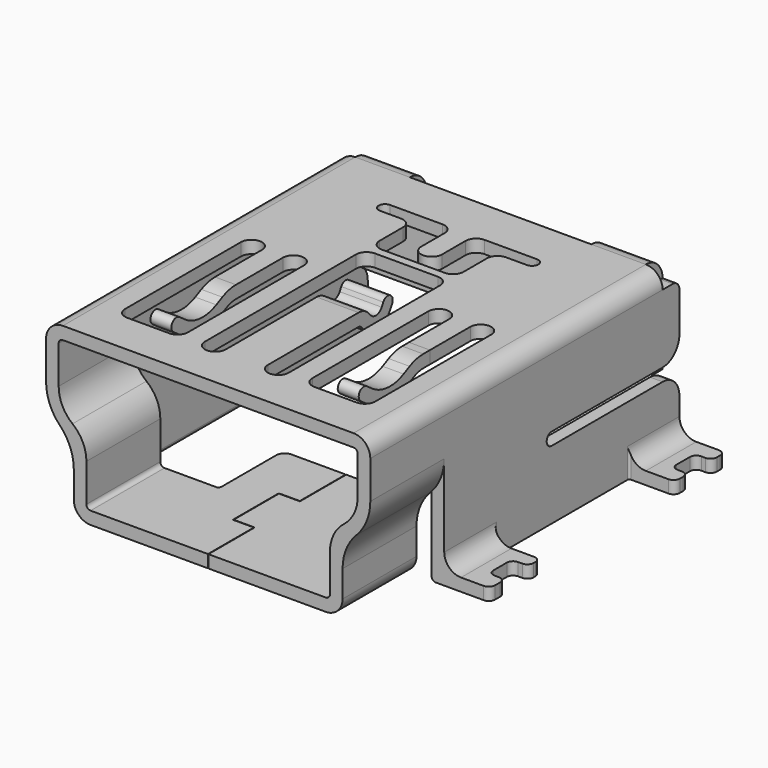
from build123d import *

# Parameters (mm, degrees)
EXTRUDE_SKETCH039_DEPTH    = 0.3
SKETCH034_W                = 4.32
SKETCH034_H                = 0.5
EXTRUDE_SKETCH034_DEPTH    = 0.5
EXTRUDE_SKETCH032_DEPTH    = 0.3
EXTRUDE_SKETCH003_DEPTH    = 6.92
SKETCH033_W                = 7.72
SKETCH033_H                = 0.5
EXTRUDE_SKETCH033_DEPTH    = 0.4
EXTRUDE_SKETCH008001_DEPTH = 0.5
PAD002_DEPTH               = 1
PAD003_DEPTH               = 0.3
PAD001_DEPTH               = 7
POCKET_DEPTH               = 5
FILLET_R                   = 0.099
PAD_DEPTH                  = 2.2
POCKET001_DEPTH            = 5
FILLET002005004_R          = 0.5
FILLET002005005_R          = 0.2


with BuildPart() as sketch039_extrude_drill:
    # Sketch039 (on Face23 of Fillet002005005) → Extrude_Sketch039 (new body)
    with BuildSketch(Plane(origin=(0, 0, 0), x_dir=(1, 0, 0), z_dir=(0, 0, -1))):
        Polygon((-0.005, 5.7), (-0.005, 4.333333), (-0.505, 4.333333), (-0.505, 2.966667), (-0.005, 2.966667), (-0.005, 1.6), (0.005, 1.6), (0.005, 2.976667), (-0.495, 2.976667), (-0.495, 4.323333), (0.005, 4.323333), (0.005, 5.7), align=None)
    extrude(amount=-EXTRUDE_SKETCH039_DEPTH)


with BuildPart() as f_15_sketch034_extrude:
    # Sketch034 (on Face6 of Fusion009004) → Extrude_Sketch034 (new body)
    with BuildSketch(Plane.XY.offset(3.96)):
        with Locations((0, 3.25)):
            Rectangle(SKETCH034_W, SKETCH034_H)
    extrude(amount=-EXTRUDE_SKETCH034_DEPTH)


with BuildPart() as f_12_sketch032_extrude:
    # Sketch032 → Extrude_Sketch032 (new body)
    with BuildSketch(Plane(origin=(0, 0, 0), x_dir=(1, 0, 0), z_dir=(0, 0, -1))):
        with BuildLine():
            Line((-1.7, 3.6), (1.7, 3.6))
            ThreePointArc((1.7, 3.6), (1.558579, 3.541422), (1.5, 3.400001))
            Line((1.5, 3.400001), (1.5, 1.8))
            ThreePointArc((1.3, 1.6), (1.441421, 1.658579), (1.5, 1.8))
            Line((-1.3, 1.6), (1.3, 1.6))
            ThreePointArc((-1.5, 1.8), (-1.441421, 1.658579), (-1.3, 1.6))
            Line((-1.5, 3.400001), (-1.5, 1.8))
            ThreePointArc((-1.5, 3.400001), (-1.558579, 3.541422), (-1.7, 3.6))
        make_face()
    extrude(amount=-EXTRUDE_SKETCH032_DEPTH)


with BuildPart() as f_13_sketch003_extrude:
    # Sketch003 → Extrude_Sketch003 (new body)
    with BuildSketch(Plane.YZ.offset(3.46)):
        with BuildLine():
            ThreePointArc((3.5, 3.460001), (3.353553, 3.813554), (3, 3.96))
            Line((3, 3.96), (3, 3.66))
            ThreePointArc((3.2, 3.460001), (3.141421, 3.601422), (3, 3.66))
            Line((3.2, 1.56), (3.2, 3.460001))
            Line((3.5, 1.56), (3.2, 1.56))
            Line((3.5, 3.460001), (3.5, 1.56))
        make_face()
    extrude(amount=-EXTRUDE_SKETCH003_DEPTH)


with BuildPart() as f_10_sketch033_extrude:
    # Sketch033 (on Face167 of Fusion009003) → Extrude_Sketch033 (new body)
    with BuildSketch(Plane.XY.offset(3.96)):
        with Locations((0, 3.25)):
            Rectangle(SKETCH033_W, SKETCH033_H)
    extrude(amount=-EXTRUDE_SKETCH033_DEPTH)


with BuildPart() as f_8_sketch008_extrude001:
    # Sketch008 → Extrude_Sketch008001 (new body)
    with BuildSketch(Plane(origin=(-2.48, 0, 0), x_dir=(0, -1, 0), z_dir=(-1, 0, 0))):
        with BuildLine():
            Line((2.2, 3.96), (2.4, 3.96))
            ThreePointArc((2.804768, 3.865368), (2.607842, 3.936027), (2.4, 3.96))
            Line((2.804768, 3.865368), (2.984037, 3.776697))
            ThreePointArc((2.984037, 3.776697), (3.462354, 3.685032), (3.91974, 3.852325))
            Line((3.91974, 3.852325), (4.082442, 3.968636))
            ThreePointArc((4.256908, 3.724583), (4.291701, 3.933842), (4.082442, 3.968636))
            Line((4.094206, 3.608273), (4.256908, 3.724583))
            ThreePointArc((2.851031, 3.507793), (3.486522, 3.386007), (4.094206, 3.608273))
            Line((2.671762, 3.596464), (2.851031, 3.507793))
            ThreePointArc((2.671762, 3.596464), (2.539545, 3.643905), (2.4, 3.66))
            Line((2.4, 3.66), (2.2, 3.66))
            Line((2.2, 3.66), (2.2, 3.96))
        make_face()
    extrude(amount=-EXTRUDE_SKETCH008001_DEPTH)


with BuildPart() as f_8_1clone_of_8_sketch008_extrude001:
    # Clone base: copy of 8.Sketch008_Extrude001
    add(f_8_sketch008_extrude001.part)


with BuildPart() as f_8_1clone_of_8_sketch008_extrude001_1:
    # Clone placement: moved
    add(f_8_1clone_of_8_sketch008_extrude001.part.moved(Location((4.46, 0, 0))))


with BuildPart() as f_8_pad002:
    # Sketch007 → Pad002 (new body)
    with BuildSketch(Plane.YZ.offset(0.5)):
        with BuildLine():
            Line((-2.05, 3.96), (-1.85, 3.96))
            ThreePointArc((-1.553111, 3.828064), (-1.687557, 3.925531), (-1.85, 3.96))
            Line((-1.553111, 3.828064), (-1.486095, 3.753842))
            ThreePointArc((-1.486095, 3.753842), (-1.313657, 3.689319), (-1.161553, 3.793061))
            Line((-1.161553, 3.793061), (-1.114147, 3.88111))
            ThreePointArc((-0.85, 3.73889), (-0.910963, 3.942073), (-1.114147, 3.88111))
            Line((-0.897407, 3.650841), (-0.85, 3.73889))
            ThreePointArc((-1.70876, 3.552794), (-1.277666, 3.391486), (-0.897407, 3.650841))
            Line((-1.775776, 3.627016), (-1.70876, 3.552794))
            ThreePointArc((-1.775776, 3.627016), (-1.809387, 3.651383), (-1.849997, 3.66))
            Line((-2.05, 3.66), (-1.849997, 3.66))
            Line((-2.05, 3.66), (-2.05, 3.96))
        make_face()
    extrude(amount=-PAD002_DEPTH)


with BuildPart() as f_7_pad003:
    # Sketch006 → Pad003 (new body)
    with BuildSketch(Plane.XY.offset(3.96)):
        with BuildLine():
            Line((-0.75, 0.4), (0.75, 0.4))
            ThreePointArc((0.75, 0.4), (0.926777, 0.473223), (1, 0.65))
            Line((1, 0.65), (1, 1.35))
            ThreePointArc((1.25, 1.6), (1.073223, 1.526777), (1, 1.35))
            Line((1.25, 1.6), (1.75, 1.6))
            ThreePointArc((1.75, 1.6), (1.9, 1.75), (1.75, 1.9))
            Line((1.75, 1.9), (0.5, 1.9))
            ThreePointArc((0.5, 1.9), (0.323223, 1.826777), (0.25, 1.65))
            Line((0.25, 1.65), (0.25, 0.95))
            ThreePointArc((-0.25, 0.95), (0, 0.7), (0.25, 0.95))
            Line((-0.25, 1.65), (-0.25, 0.95))
            ThreePointArc((-0.25, 1.65), (-0.323223, 1.826777), (-0.5, 1.9))
            Line((-1.75, 1.9), (-0.5, 1.9))
            ThreePointArc((-1.75, 1.9), (-1.9, 1.75), (-1.75, 1.6))
            Line((-1.25, 1.6), (-1.75, 1.6))
            ThreePointArc((-1, 1.35), (-1.073223, 1.526777), (-1.25, 1.6))
            Line((-1, 0.65), (-1, 1.35))
            ThreePointArc((-1, 0.65), (-0.926777, 0.473223), (-0.75, 0.4))
        make_face()
        with BuildLine():
            Line((-0.75, 0.2), (0.75, 0.2))
            ThreePointArc((1, -0.05), (0.926777, 0.126777), (0.75, 0.2))
            Line((1, -0.05), (1, -4.55))
            ThreePointArc((0.5, -4.55), (0.75, -4.8), (1, -4.55))
            Line((0.5, -2.05), (0.5, -4.55))
            Line((0.5, -2.05), (-0.5, -2.05))
            Line((-0.5, -2.05), (-0.5, -4.55))
            ThreePointArc((-1, -4.55), (-0.75, -4.8), (-0.5, -4.55))
            Line((-1, -0.05), (-1, -4.55))
            ThreePointArc((-0.75, 0.2), (-0.926777, 0.126777), (-1, -0.05))
        make_face()
        with BuildLine():
            Line((1.48, -1), (1.48, -4.45))
            ThreePointArc((1.48, -4.45), (1.553223, -4.626777), (1.73, -4.7))
            Line((1.73, -4.7), (2.73, -4.7))
            ThreePointArc((2.73, -4.7), (2.906777, -4.626777), (2.98, -4.45))
            Line((2.98, -4.45), (2.98, -1))
            ThreePointArc((2.98, -1), (2.73, -0.75), (2.48, -0.999999))
            Line((2.48, -0.999999), (2.48, -2.199999))
            Line((2.48, -2.199999), (1.98, -2.199999))
            Line((1.98, -2.199999), (1.98, -0.999999))
            ThreePointArc((1.98, -0.999999), (1.73, -0.750001), (1.48, -1))
        make_face()
        with BuildLine():
            Line((-2.98, -1), (-2.98, -4.449997))
            ThreePointArc((-2.98, -4.449997), (-2.906776, -4.626776), (-2.729997, -4.7))
            Line((-2.729997, -4.7), (-1.73, -4.7))
            ThreePointArc((-1.73, -4.7), (-1.553223, -4.626777), (-1.48, -4.45))
            Line((-1.48, -4.45), (-1.48, -1.000003))
            ThreePointArc((-1.48, -1.000003), (-1.73, -0.750003), (-1.98, -1.000003))
            Line((-1.98, -1.000003), (-1.98, -2.200003))
            Line((-2.48, -2.200003), (-1.98, -2.200003))
            Line((-2.48, -1.000003), (-2.48, -2.200003))
            ThreePointArc((-2.48, -1.000003), (-2.729999, -0.750003), (-2.98, -1))
        make_face()
    extrude(amount=-PAD003_DEPTH)


with BuildPart() as f_3_fillet_b:
    # Sketch001 → Pad001 (new body)
    with BuildSketch(Plane.XZ.offset(3.5)):
        with BuildLine():
            Line((3.86, 2.66), (3.86, 3.56))
            ThreePointArc((3.86, 3.56), (3.742843, 3.842843), (3.46, 3.96))
            Line((3.46, 3.96), (0, 3.96))
            Line((0, 3.96), (0, 3.66))
            Line((0, 3.66), (3.46, 3.66))
            ThreePointArc((3.56, 3.56), (3.530711, 3.630711), (3.46, 3.66))
            Line((3.56, 3.56), (3.56, 2.66))
            Line((3.56, 2.66), (3.56, 0))
            Line((3.56, 0), (4.95, 0))
            Line((4.95, 0.3), (4.95, 0))
            Line((4.26, 0.3), (4.95, 0.3))
            ThreePointArc((3.86, 0.7), (3.977157, 0.417157), (4.26, 0.3))
            Line((3.86, 2.66), (3.86, 0.7))
        make_face()
    extrude(amount=-PAD001_DEPTH)

    # Sketch002 (on Face7 of Pad001) → Pocket (cut)
    with BuildSketch(Plane(origin=(0, -3.5, 0), x_dir=(1, 0, 0), z_dir=(0, 0, -1))):
        with BuildLine():
            Line((4.95, -7), (4.95, -6.85))
            ThreePointArc((4.8, -7), (4.906066, -6.956066), (4.95, -6.85))
            Line((4.95, -7), (4.8, -7))
        make_face()
        with BuildLine():
            Line((4.95, -5.65), (4.95, -1.35))
            ThreePointArc((4.8, -1.5), (4.906066, -1.456066), (4.95, -1.35))
            Line((4.8, -1.5), (3.91, -1.5))
            ThreePointArc((3.91, -1.5), (3.874645, -1.514645), (3.86, -1.55))
            Line((3.86, -1.55), (3.86, -5.45))
            ThreePointArc((3.86, -5.45), (3.874645, -5.485355), (3.91, -5.5))
            Line((3.91, -5.5), (4.8, -5.5))
            ThreePointArc((4.95, -5.65), (4.906066, -5.543934), (4.8, -5.5))
        make_face()
        with BuildLine():
            ThreePointArc((4.95, -6.75), (4.906066, -6.643934), (4.8, -6.6))
            Line((4.8, -6.6), (4.7, -6.6))
            ThreePointArc((4.55, -6.45), (4.593934, -6.556066), (4.7, -6.6))
            Line((4.55, -6.25), (4.55, -6.45))
            Line((4.55, -6.05), (4.55, -6.25))
            ThreePointArc((4.7, -5.9), (4.593934, -5.943934), (4.55, -6.05))
            Line((4.8, -5.9), (4.7, -5.9))
            ThreePointArc((4.8, -5.9), (4.906066, -5.856066), (4.95, -5.75))
            Line((4.95, -6.75), (4.95, -5.75))
        make_face()
        with BuildLine():
            ThreePointArc((4.95, -1.3), (4.906066, -1.193934), (4.8, -1.15))
            Line((4.8, -1.15), (4.7, -1.15))
            ThreePointArc((4.55, -1), (4.593934, -1.106066), (4.7, -1.15))
            Line((4.55, -0.8), (4.55, -1))
            Line((4.55, -0.6), (4.55, -0.8))
            ThreePointArc((4.7, -0.45), (4.593934, -0.493934), (4.55, -0.6))
            Line((4.8, -0.45), (4.7, -0.45))
            ThreePointArc((4.8, -0.45), (4.906066, -0.406066), (4.95, -0.3))
            Line((4.95, -1.3), (4.95, -0.3))
        make_face()
        with BuildLine():
            Line((4.95, 0), (4.8, 0))
            ThreePointArc((4.95, -0.15), (4.906066, -0.043934), (4.8, 0))
            Line((4.95, 0), (4.95, -0.15))
        make_face()
    extrude(amount=-POCKET_DEPTH, mode=Mode.SUBTRACT)

    # Fillet
    fillet_edges = [f_3_fillet_b.edges().sort_by_distance(p)[0] for p in [
        (3.56, 0, 0),
    ]]
    fillet(fillet_edges, radius=FILLET_R)


with BuildPart() as f_5_pocket001:
    # Sketch → Pad (new body)
    with BuildSketch(Plane.XZ.offset(5.7)):
        with BuildLine():
            Line((0, 0), (2.8, 0))
            ThreePointArc((2.8, 0), (3.082843, 0.117157), (3.2, 0.4))
            Line((3.2, 0.4), (3.2, 1.0347))
            ThreePointArc((3.53, 1.84735), (3.285647, 1.473249), (3.2, 1.0347))
            ThreePointArc((3.53, 1.84735), (3.774353, 2.221451), (3.86, 2.66))
            Line((3.86, 2.66), (3.86, 3.56))
            ThreePointArc((3.86, 3.56), (3.742843, 3.842843), (3.46, 3.96))
            Line((3.46, 3.96), (0, 3.96))
            Line((0, 3.96), (0, 3.66))
            Line((0, 3.66), (3.46, 3.66))
            ThreePointArc((3.56, 3.56), (3.530711, 3.630711), (3.46, 3.66))
            Line((3.56, 3.56), (3.56, 2.66))
            ThreePointArc((3.23, 1.98), (3.473142, 2.282078), (3.56, 2.66))
            ThreePointArc((3.23, 1.98), (2.986858, 1.677922), (2.9, 1.3))
            Line((2.9, 1.3), (2.9, 0.4))
            ThreePointArc((2.8, 0.3), (2.870711, 0.329289), (2.9, 0.4))
            Line((2.8, 0.3), (0, 0.3))
            Line((0, 0), (0, 0.3))
        make_face()
    extrude(amount=-PAD_DEPTH)

    # Fusion: union 3.Fillet-B
    add(f_3_fillet_b.part)

    # Sketch005 (on Face49 of Fusion) → Pocket001 (cut)
    with BuildSketch(Plane.YZ.offset(3.86)):
        with BuildLine():
            Line((3.5, 1.93), (-0.3, 1.93))
            ThreePointArc((-0.3, 1.93), (-0.45, 1.78), (-0.3, 1.63))
            Line((3.5, 1.63), (-0.3, 1.63))
            Line((3.5, 1.63), (3.5, 1.93))
        make_face()
    extrude(amount=-POCKET001_DEPTH, mode=Mode.SUBTRACT)


with BuildPart() as f_19_cut004:
    # Part__Mirroring: instance of 5.Pocket001
    add(f_5_pocket001.part.mirror(Plane(origin=(0, 0, 0), x_dir=(0, -1, 0), z_dir=(1, 0, 0))))

    # Fusion001: union 5.Pocket001
    add(f_5_pocket001.part)

    # Cut: cut 7.Pad003
    add(f_7_pad003.part, mode=Mode.SUBTRACT)

    # Fusion009003: union 8.Sketch008_Extrude001, 8.1Clone of 8.Sketch008_Extrude001, 8.Pad002
    add(f_8_sketch008_extrude001.part)
    add(f_8_1clone_of_8_sketch008_extrude001_1.part)
    add(f_8_pad002.part)

    # Cut001: cut 10.Sketch033_Extrude
    add(f_10_sketch033_extrude.part, mode=Mode.SUBTRACT)

    # Fusion009004: union 12.Sketch032_Extrude, 13.Sketch003_Extrude
    add(f_12_sketch032_extrude.part)
    add(f_13_sketch003_extrude.part)

    # Cut002: cut 15.Sketch034_Extrude
    add(f_15_sketch034_extrude.part, mode=Mode.SUBTRACT)

    # Fillet002005004
    fillet002005004_edges = [f_19_cut004.edges().sort_by_distance(p)[0] for p in [
        (3.71, 3.5, 1.93),
        (-3.71, 3.5, 1.93),
        (-3.71, 3.5, 1.63),
        (3.71, 3.5, 1.63),
    ]]
    fillet(fillet002005004_edges, radius=FILLET002005004_R)

    # Fillet002005005
    fillet002005005_edges = [f_19_cut004.edges().sort_by_distance(p)[0] for p in [
        (-3.71, 3.5, 3.56),
        (3.71, 3.5, 3.56),
    ]]
    fillet(fillet002005005_edges, radius=FILLET002005005_R)

    # Cut004: cut Sketch039_Extrude-Drill
    add(sketch039_extrude_drill.part, mode=Mode.SUBTRACT)


with BuildPart() as f_19_cut004_1:
    # Cut004 placement: moved
    add(f_19_cut004.part.moved(Location((0, -0.1, 0))))


solid = f_19_cut004_1.part
